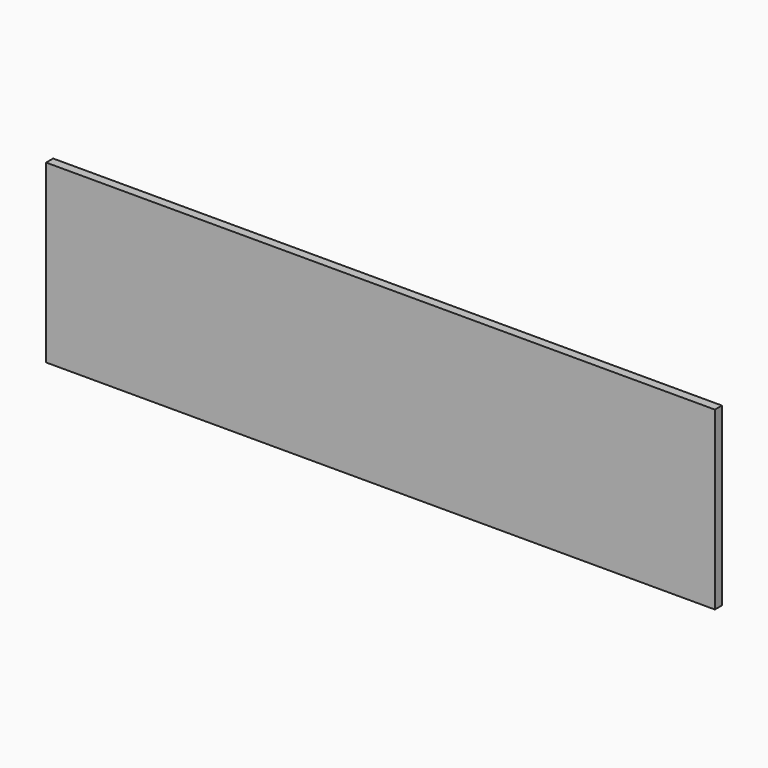
from build123d import *

# Parameters (mm, degrees)
SKETCH048_W     = 95
SKETCH048_H     = 25
PAD020_DEPTH    = 2.5
SKETCH049_R     = 3.05
PAD021_DEPTH    = 5
SKETCH050_W     = 95
SKETCH050_H     = 25
SKETCH050_W_2   = 89.5
SKETCH050_H_2   = 19.5
POCKET027_DEPTH = 1.25


with BuildPart() as part:
    # Sketch048 → Pad020 (new body)
    with BuildSketch(Plane.XZ):
        with Locations((0, 21.5)):
            Rectangle(SKETCH048_W, SKETCH048_H)
    extrude(amount=PAD020_DEPTH)

    # Sketch049 (on Face5 of Pad020) → Pad021 (join)
    with BuildSketch(Plane(origin=(0, 0, 0), x_dir=(1, 0, 0), z_dir=(0, 1, 0))):
        with Locations((-20, -21.5)):
            Circle(SKETCH049_R)
        with Locations((20, -21.5)):
            Circle(SKETCH049_R)
    extrude(amount=PAD021_DEPTH)

    # Sketch050 (on Face4 of Pad021) → Pocket027 (cut)
    with BuildSketch(Plane(origin=(0, 0, 0), x_dir=(1, 0, 0), z_dir=(0, 1, 0))):
        with Locations((0, -21.5)):
            Rectangle(SKETCH050_W, SKETCH050_H)
        with Locations((0, -21.5)):
            Rectangle(SKETCH050_W_2, SKETCH050_H_2, mode=Mode.SUBTRACT)
    extrude(amount=-POCKET027_DEPTH, mode=Mode.SUBTRACT)


with BuildPart() as part_1:
    # Body010 placement: moved
    add(part.part.moved(Location((0, -70.15, 0))))


solid = part_1.part
